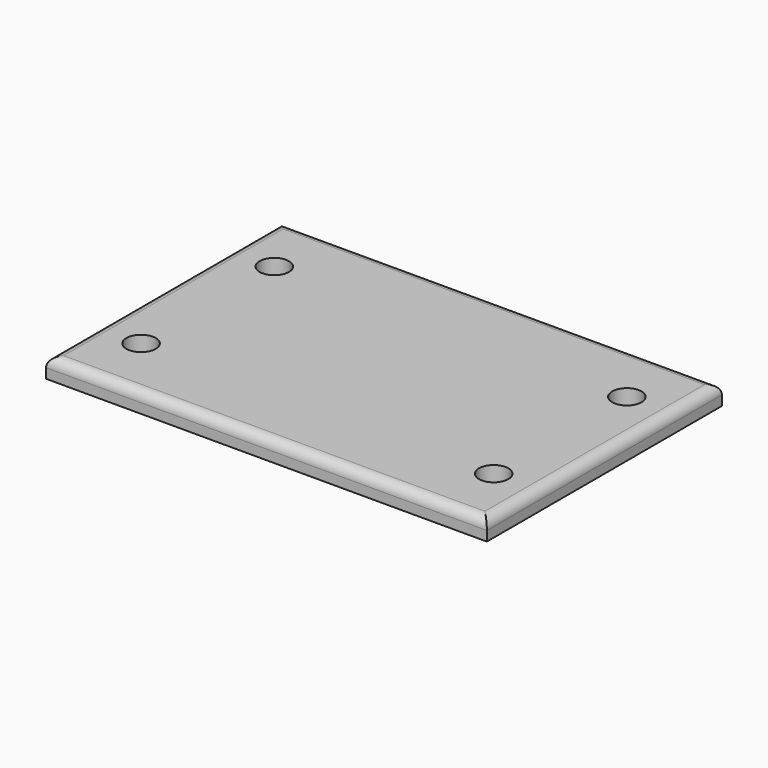
from build123d import *

# Parameters (mm, degrees)
F0_W     = 45
F0_H     = 30
F0_R     = 1.5
F1_DEPTH = 2
F2_R     = 1


with BuildPart() as f1:
    # F0 (on Top) → F1 (new body)
    with BuildSketch(Plane.XY):
        Rectangle(F0_W, F0_H)
        with Locations((-18, -8.5)):
            Circle(F0_R, mode=Mode.SUBTRACT)
        with Locations((18, -8.5)):
            Circle(F0_R, mode=Mode.SUBTRACT)
        with Locations((-18, 8.5)):
            Circle(F0_R, mode=Mode.SUBTRACT)
        with Locations((18, 8.5)):
            Circle(F0_R, mode=Mode.SUBTRACT)
    extrude(amount=F1_DEPTH)

    # F2
    f2_edges = [f1.edges().sort_by_distance(p)[0] for p in [
        (-22.5, 0, 2),
        (0, 15, 2),
        (22.5, 0, 2),
        (0, -15, 2),
    ]]
    fillet(f2_edges, radius=F2_R)


solid = f1.part
